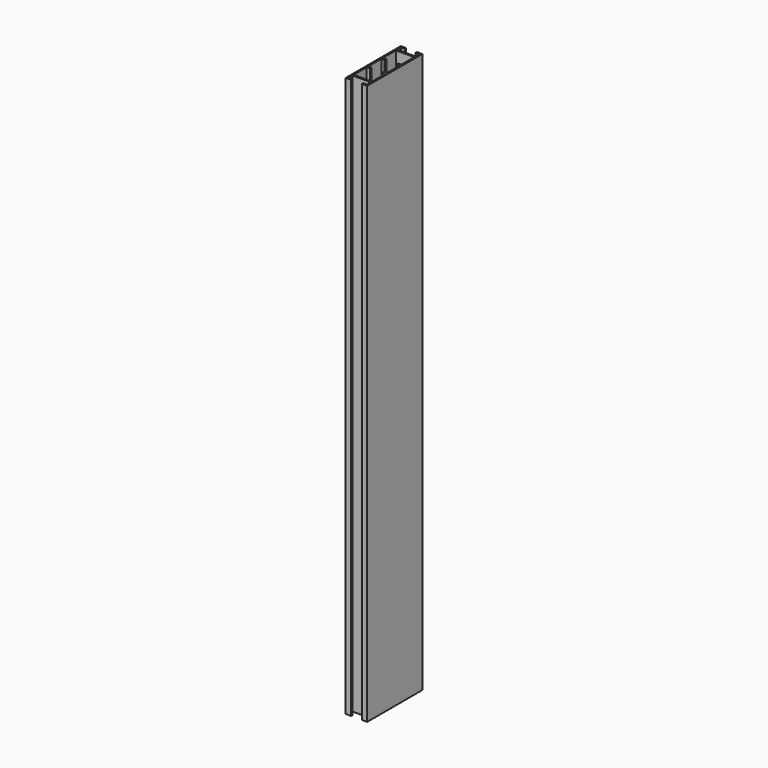
from build123d import *

# Parameters (mm, degrees)
F1_DEPTH = 520


with BuildPart() as f1:
    # F0 (on Top) → F1 (new body)
    with BuildSketch(Plane.XY):
        Polygon((-5, 30.5), (-5, 32), (-10, 32), (-10, -32), (-5, -32), (-5, -30.5), (-8.5, -30.5), (-8.5, -26), (8.5, -26), (8.5, -30.5), (5, -30.5), (5, -32), (10, -32), (10, 32), (5, 32), (5, 30.5), (8.5, 30.5), (8.5, 26), (-8.5, 26), (-8.5, 30.5), align=None)
        Polygon((-8.5, 9.5), (-8.5, 24.5), (8.5, 24.5), (8.5, 9.5), (5.5, 9.5), (5.5, 7.5), (8.5, 7.5), (8.5, -7.5), (5.5, -7.5), (5.5, -9.5), (8.5, -9.5), (8.5, -24.5), (-8.5, -24.5), (-8.5, -9.5), (-5.5, -9.5), (-5.5, -7.5), (-8.5, -7.5), (-8.5, 7.5), (-5.5, 7.5), (-5.5, 9.5), align=None, mode=Mode.SUBTRACT)
    extrude(amount=F1_DEPTH)


solid = f1.part
